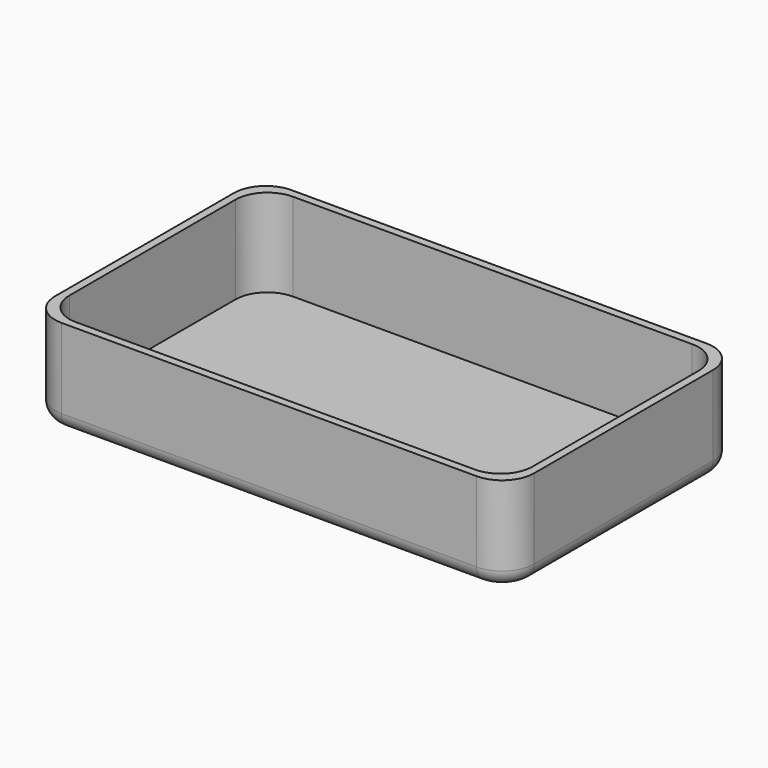
from build123d import *

# Parameters (mm, degrees)
F0_W     = 150
F0_H     = 90
F1_DEPTH = 30
F2_T     = -2.5
F3_R     = 10
F4_R     = 5


with BuildPart() as f1:
    # F0 (on Top) → F1 (new body)
    with BuildSketch(Plane.XY):
        Rectangle(F0_W, F0_H)
    extrude(amount=F1_DEPTH)

    # F2
    f2_openings = [f1.faces().sort_by_distance(p)[0] for p in [
        (0, 0, 30),
    ]]
    offset(amount=F2_T, openings=f2_openings)

    # F3
    f3_edges = [f1.edges().sort_by_distance(p)[0] for p in [
        (-75, 45, 15),
        (75, 45, 15),
        (75, -45, 15),
        (-75, -45, 15),
        (-72.5, 42.5, 16.25),
        (72.5, 42.5, 16.25),
        (72.5, -42.5, 16.25),
        (-72.5, -42.5, 16.25),
    ]]
    fillet(f3_edges, radius=F3_R)

    # F4
    f4_edges = [f1.edges().sort_by_distance(p)[0] for p in [
        (-75, 0, 0),
        (-72.071068, -42.071068, 0),
        (0, -45, 0),
        (72.071068, -42.071068, 0),
        (75, 0, 0),
        (72.071068, 42.071068, 0),
        (0, 45, 0),
        (-72.071068, 42.071068, 0),
    ]]
    fillet(f4_edges, radius=F4_R)


solid = f1.part
